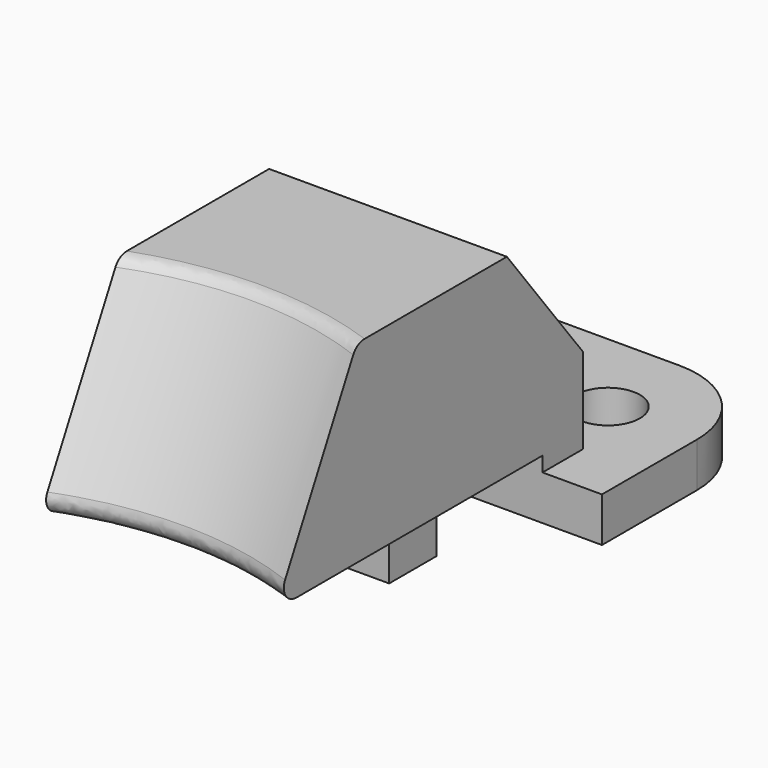
from build123d import *

# Parameters (mm, degrees)
SKETCH133_R          = 2.15
PAD070_DEPTH         = 3
PAD071_DEPTH         = 8
SKETCH135_R          = 25.5
POCKET019_DEPTH      = 17.388212
POCKET019_DEPTH_BACK = 14.320967
CHAMFER011_SIZE2     = 7
CHAMFER011_SIZE      = 9
SKETCH136_R          = 5
POCKET020_DEPTH      = 14.001
FILLET011_R          = 6
FILLET012_R          = 1
SKETCH137_W          = 12
SKETCH137_H          = 4
PAD072_DEPTH         = 4


with BuildPart() as part:
    # Sketch133 → Pad070 (new body)
    with BuildSketch(Plane.XY):
        Polygon((12, -6), (12, 6), (-12, 6), (-12, -6), (-12, -8), (12, -8), align=None)
        with Locations((6, 0)):
            Circle(SKETCH133_R, mode=Mode.SUBTRACT)
        with Locations((-6, 0)):
            Circle(SKETCH133_R, mode=Mode.SUBTRACT)
    extrude(amount=PAD070_DEPTH)

    # Sketch134 → Pad071 (join, symmetric)
    with BuildSketch(Plane.YZ):
        Polygon((-4, 3), (-8, 3), (-8, 4), (-30, 4), (-30, 7.4), (-25, 17), (-4, 17), align=None)
    extrude(amount=PAD071_DEPTH, both=True)

    # Sketch135 (on DatumPlane) → Pocket019 (cut, two sides)
    with BuildSketch(Plane(origin=(8, -25, 17), x_dir=(-1, 0, 0), z_dir=(0, 0.461934, 0.886914))) as pocket019_sk:
        with Locations((8, 23)):
            Circle(SKETCH135_R)
    extrude(amount=-POCKET019_DEPTH, mode=Mode.SUBTRACT)
    extrude(pocket019_sk.sketch, amount=POCKET019_DEPTH_BACK, mode=Mode.SUBTRACT)

    # Chamfer011
    chamfer011_edges = [part.edges().sort_by_distance(p)[0] for p in [
        (0, -4, 17),
    ]]
    chamfer011_side = part.faces().sort_by_distance((0, -4, 10))[0]
    chamfer(chamfer011_edges, length=CHAMFER011_SIZE, length2=CHAMFER011_SIZE2, reference=chamfer011_side)

    # Sketch136 (on Face7 of Chamfer011) → Pocket020 (cut, through all)
    with BuildSketch(Plane.XY.offset(3)):
        with Locations((-6, 0)):
            Circle(SKETCH136_R)
        with Locations((6, 0)):
            Circle(SKETCH136_R)
    extrude(amount=POCKET020_DEPTH, mode=Mode.SUBTRACT)

    # Fillet011
    fillet011_edges = [part.edges().sort_by_distance(p)[0] for p in [
        (-12, 6, 1.5),
        (12, 6, 1.5),
    ]]
    fillet(fillet011_edges, radius=FILLET011_R)

    # Fillet012
    fillet012_edges = [part.edges().sort_by_distance(p)[0] for p in [
        (0, -22.181238, 17),
        (0, -28.952071, 4),
    ]]
    fillet(fillet012_edges, radius=FILLET012_R)

    # Sketch137 (on Face2 of Fillet012) → Pad072 (join)
    with BuildSketch(Plane(origin=(0, 0, 4), x_dir=(1, 0, 0), z_dir=(0, 0, -1))):
        with Locations((0, 16.4)):
            Rectangle(SKETCH137_W, SKETCH137_H)
    extrude(amount=PAD072_DEPTH)


with BuildPart() as part_1:
    # Body031 placement: moved
    add(part.part.moved(Location((0, 33.5, -181.5))))


solid = part_1.part
